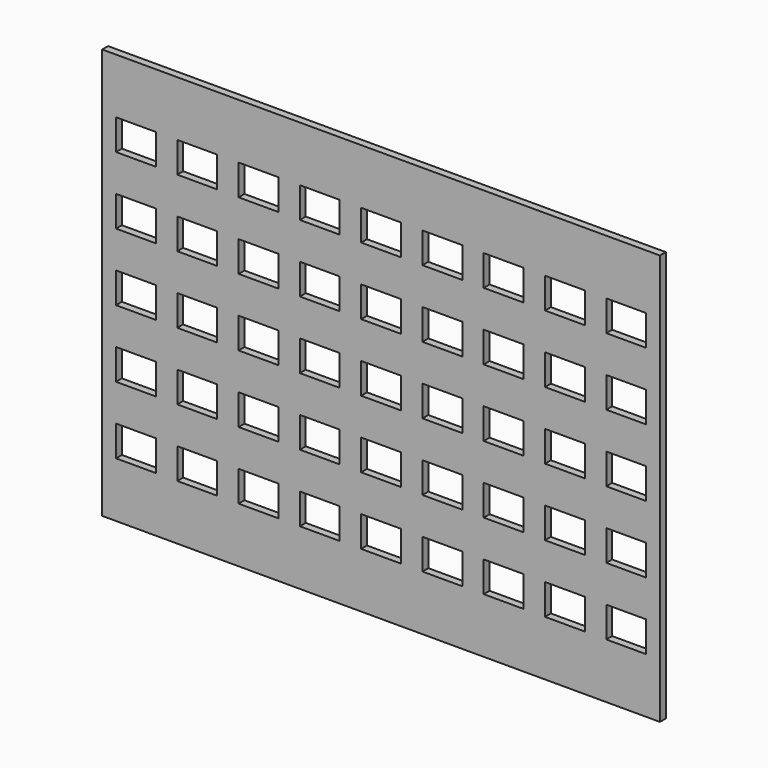
from build123d import *

# Parameters (mm, degrees)
BOX007_W         = 6.5
BOX007_H         = 5
BOX007_DEPTH     = 5
ARRAY001_X_COUNT = 9
ARRAY001_X_PITCH = 10
ARRAY001_Z_COUNT = 5
ARRAY001_Z_PITCH = 11
BOX006_W         = 91
BOX006_H         = 67
BOX006_DEPTH     = 1.2


with BuildPart() as array001:
    # Box007 → Box007 (new body)
    with BuildSketch(Plane(origin=(-43, -3, 11), x_dir=(1, 0, 0), z_dir=(0, 0, 1))):
        with Locations((3.25, 2.5)):
            Rectangle(BOX007_W, BOX007_H)
    extrude(amount=BOX007_DEPTH)

    # Array001 X: Array001 ×9


with BuildPart() as array001_1:
    add(array001.part)
    with Locations(*[(i * ARRAY001_X_PITCH, 0, 0) for i in range(1, ARRAY001_X_COUNT)]):
        add(array001.part)

    # Array001 Z: Array001 ×5


with BuildPart() as array001_2:
    add(array001_1.part)
    with Locations(*[(0, 0, i * ARRAY001_Z_PITCH) for i in range(1, ARRAY001_Z_COUNT)]):
        add(array001_1.part)


with BuildPart() as array001_3:
    # Array001 placement: moved
    add(array001_2.part.moved(Location((0.35, 0, -0.4))))


with BuildPart() as obj1:
    # Box006 → Box006 (new body)
    with BuildSketch(Plane(origin=(-44.9, 0, 1.6), x_dir=(1, 0, 0), z_dir=(0, -1, 0))):
        with Locations((45.5, 33.5)):
            Rectangle(BOX006_W, BOX006_H)
    extrude(amount=BOX006_DEPTH)

    # Cut003: cut Array001
    add(array001_3.part, mode=Mode.SUBTRACT)


with BuildPart() as obj1_1:
    # Cut003 placement: moved
    add(obj1.part.moved(Location((0, -45.2, 0))))


solid = obj1_1.part
